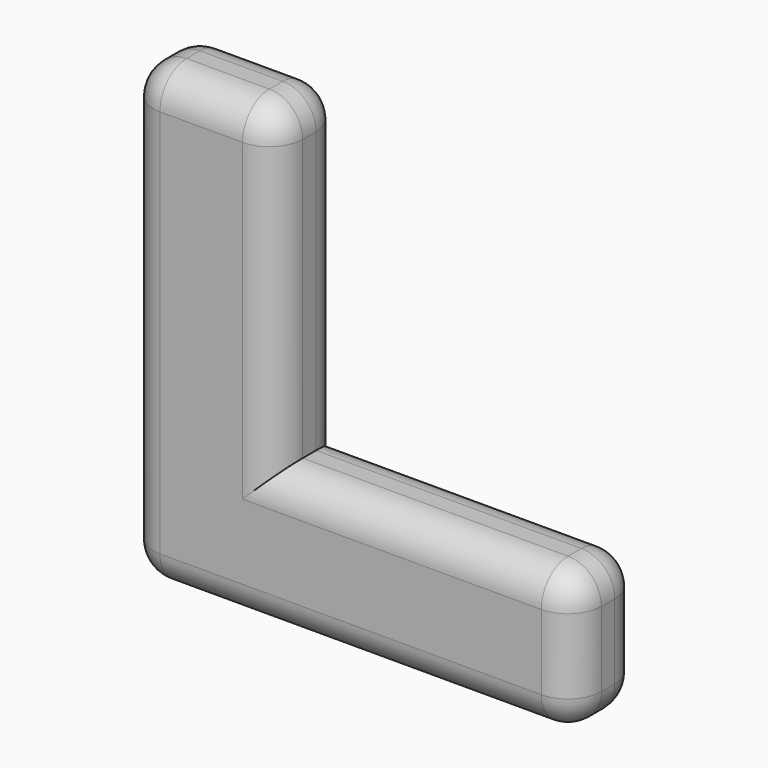
from build123d import *

# Parameters (mm, degrees)
F1_DEPTH = 12.7
F2_R     = 5.08
F3_R     = 5.08


with BuildPart() as f1:
    # F0 (on Front) → F1 (new body)
    with BuildSketch(Plane.XZ):
        Polygon((-16.031148, 56.691967), (-38.766231, 56.691967), (-38.766231, -12.67918), (29.439015, -12.67918), (29.439015, 8.89), (-16.031148, 8.89), align=None)
    extrude(amount=F1_DEPTH)

    # F2
    f2_edges = [f1.edges().sort_by_distance(p)[0] for p in [
        (-38.766231, -12.7, 22.006393),
        (-27.39869, -12.7, 56.691967),
        (-16.031148, -12.7, 32.790984),
        (6.703934, -12.7, 8.89),
        (29.439015, -12.7, -1.89459),
        (-4.663608, -12.7, -12.67918),
        (29.439015, -6.35, -12.67918),
        (29.439015, -6.35, 8.89),
        (-16.031148, -6.35, 56.691967),
        (-38.766231, -6.35, 56.691967),
        (-38.766231, -6.35, -12.67918),
    ]]
    fillet(f2_edges, radius=F2_R)

    # F3
    f3_edges = [f1.edges().sort_by_distance(p)[0] for p in [
        (-4.663608, 0, -12.67918),
    ]]
    fillet(f3_edges, radius=F3_R)


solid = f1.part
